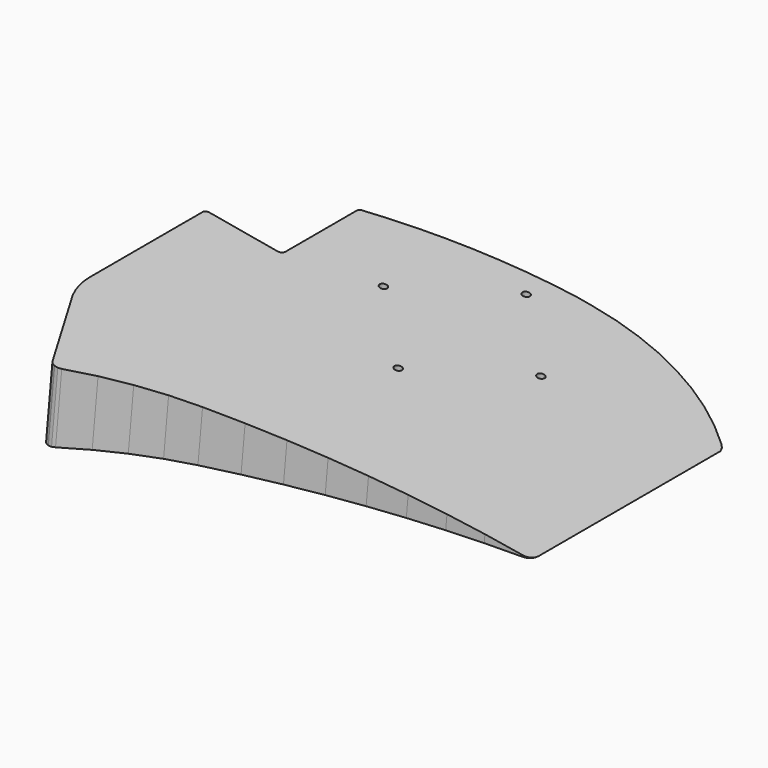
from build123d import *

# Parameters (mm, degrees)
SKETCH_R     = 0.9
POCKET_DEPTH = 8


with BuildPart() as part:
    # Sketch001 → AdditiveLoft section 0
    with BuildSketch(Plane.XY):
        Polygon((-2.031, -29.0839), (-1.257947, -28.943732), (-0.618525, -28.534747), (-0.176591, -27.917639), (0.004, -27.153), (-0.004, 27.153), (-0.560859, 28.270986), (-1.431, 29.167), (-6.272512, 32.989791), (-11.405458, 36.344259), (-16.795601, 39.217647), (-22.408705, 41.597202), (-28.210534, 43.470169), (-34.16685, 44.823794), (-40.243418, 45.645323), (-46.406, 45.922), (-50.381, 45.924), (-56.042517, 45.525582), (-61.677386, 44.905206), (-67.27916, 44.064231), (-72.841394, 43.004018), (-78.357641, 41.725928), (-83.821455, 40.231321), (-89.22639, 38.521558), (-94.566, 36.598), (-94.883057, 36.321094), (-95.001, 35.917), (-94.996, 14.521), (-95.07212, 14.138317), (-95.288893, 13.813893), (-95.613317, 13.59712), (-95.996, 13.521), (-112.7, 13.524), (-113.23033, 13.30433), (-113.45, 12.774), (-113.462, 7.28), (-113.45, -18.3385), (-113.462, -20.858), (-113.339801, -22.754576), (-113.005248, -24.61928), (-112.462571, -26.434368), (-111.716, -28.1821), (-100.248, -48.3093), (-99.714625, -48.868478), (-99.006985, -49.178983), (-98.234343, -49.192872), (-97.516, -48.908), (-91.560821, -45.435951), (-85.35926, -42.450719), (-78.941069, -39.965203), (-72.336, -37.9923), (-63.727397, -35.91899), (-55.064358, -34.118273), (-46.353366, -32.590974), (-37.600904, -31.337917), (-28.813454, -30.359926), (-19.997498, -29.657827), (-11.159519, -29.232443), (-2.306, -29.0846), align=None)
    # Sketch002 (on DatumPlane) → AdditiveLoft section 1
    with BuildSketch(Plane(origin=(0, 0, 0), x_dir=(0.984808, 0, -0.173648), z_dir=(0.173648, 0, 0.984808))):
        Polygon((-2.030999, -29.083908), (-1.257947, -28.943732), (-0.618525, -28.534747), (-0.176591, -27.917639), (0.004, -27.153), (-0.004, 27.153), (-0.560859, 28.270986), (-1.431, 29.167), (-6.272512, 32.989791), (-11.405458, 36.344259), (-16.795601, 39.217647), (-22.408705, 41.597202), (-28.210534, 43.470169), (-34.16685, 44.823794), (-40.243418, 45.645323), (-46.406, 45.922), (-50.381, 45.924), (-56.042517, 45.525582), (-61.677386, 44.905206), (-67.27916, 44.064231), (-72.841394, 43.004018), (-78.357641, 41.725928), (-83.821455, 40.231321), (-89.22639, 38.521558), (-94.566, 36.598), (-94.883057, 36.321094), (-95.001, 35.917), (-94.996, 14.521), (-95.07212, 14.138317), (-95.288893, 13.813893), (-95.613317, 13.59712), (-95.996, 13.521), (-112.7, 13.524), (-113.23033, 13.30433), (-113.45, 12.774), (-113.462, 7.28), (-113.45, -18.3385), (-113.462, -20.858), (-113.339801, -22.754576), (-113.005248, -24.61928), (-112.462571, -26.434368), (-111.716, -28.1821), (-100.248, -48.3093), (-99.714625, -48.868478), (-99.006985, -49.178983), (-98.234343, -49.192872), (-97.516, -48.908), (-91.560821, -45.435951), (-85.35926, -42.450719), (-78.941069, -39.965203), (-72.336, -37.9923), (-63.727397, -35.91899), (-55.064358, -34.118273), (-46.353366, -32.590974), (-37.600904, -31.337917), (-28.813454, -30.359926), (-19.997498, -29.657827), (-11.159519, -29.232443), (-2.306, -29.0846), align=None)
    loft()

    # Sketch (on DatumPlane) → Pocket (cut)
    with BuildSketch(Plane(origin=(0, 0, 0), x_dir=(0.984808, 0, -0.173648), z_dir=(0.173648, 0, 0.984808))):
        with Locations((-75.768781, 20.08171)):
            Circle(SKETCH_R)
        with Locations((-56.718781, 39.131712)):
            Circle(SKETCH_R)
        with Locations((-37.676, 20.079)):
            Circle(SKETCH_R)
        with Locations((-56.726, 1.029)):
            Circle(SKETCH_R)
    extrude(amount=-POCKET_DEPTH, mode=Mode.SUBTRACT)


solid = part.part
